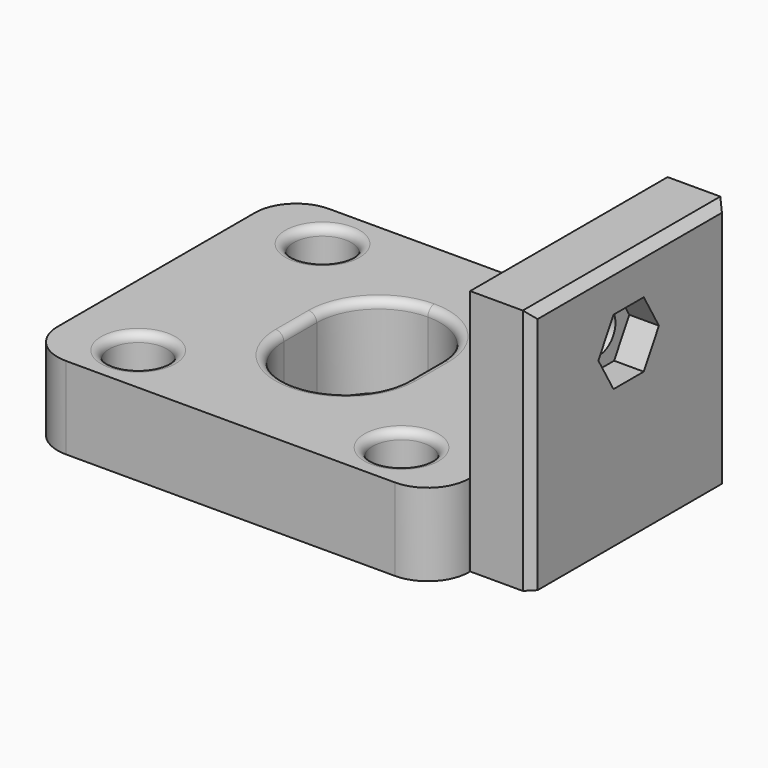
from build123d import *

# Parameters (mm, degrees)
F0_R     = 4.445
F1_DEPTH = 12.7
F2_R     = 1.27
F4_START = 31.75
F3_R     = 3.175
F4_DEPTH = 4.826
F5_START = 31.75
F3_W     = 38.1
F3_H     = 38.1
F5_DEPTH = 9.398
F6_SIZE  = 1.27


with BuildPart() as f1:
    # F0 (on Top) → F1 (new body)
    with BuildSketch(Plane.XY):
        with BuildLine():
            ThreePointArc((31.75, 19.05), (29.8901280605, 23.5401280605), (25.4, 25.4))
            Line((25.4, 25.4), (-25.4, 25.4))
            ThreePointArc((-25.4, 25.4), (-29.8901280605, 23.5401280605), (-31.75, 19.05))
            Line((-31.75, 19.05), (-31.75, -19.05))
            ThreePointArc((-31.75, -19.05), (-29.8901280605, -23.5401280605), (-25.4, -25.4))
            Line((-25.4, -25.4), (25.4, -25.4))
            ThreePointArc((25.4, -25.4), (29.8901280605, -23.5401280605), (31.75, -19.05))
            Line((31.75, -19.05), (31.75, 19.05))
        make_face()
        with Locations((-20.32, -17.78)):
            Circle(F0_R, mode=Mode.SUBTRACT)
        with Locations((20.32, -17.78)):
            Circle(F0_R, mode=Mode.SUBTRACT)
        with BuildLine():
            ThreePointArc((0, 12.7), (6.7351920908, 9.9101920908), (9.525, 3.175))
            Line((9.525, 3.175), (9.525, -3.175))
            ThreePointArc((9.525, -3.175), (6.7351920908, -9.9101920908), (0, -12.7))
            ThreePointArc((0, -12.7), (-6.7351920908, -9.9101920908), (-9.525, -3.175))
            Line((-9.525, -3.175), (-9.525, 3.175))
            ThreePointArc((-9.525, 3.175), (-6.7351920908, 9.9101920908), (0, 12.7))
        make_face(mode=Mode.SUBTRACT)
        with Locations((-20.32, 17.78)):
            Circle(F0_R, mode=Mode.SUBTRACT)
        with Locations((20.32, 17.78)):
            Circle(F0_R, mode=Mode.SUBTRACT)
    extrude(amount=F1_DEPTH)

    # F2
    f2_edges = [f1.edges().sort_by_distance(p)[0] for p in [
        (-24.765, 17.78, 12.7),
        (-15.875, -17.78, 6.35),
        (-24.765, -17.78, 0),
        (-24.765, -17.78, 12.7),
        (15.875, -17.78, 12.7),
        (15.875, 17.78, 12.7),
        (0, -12.7, 12.7),
        (-9.525, 0, 12.7),
        (0, 12.7, 12.7),
        (9.525, 0, 12.7),
    ]]
    fillet(f2_edges, radius=F2_R)


with BuildPart() as f4:
    # F3 (on Right) → F4 (new body)
    with BuildSketch(Plane.YZ.offset(F4_START)):
        Polygon((-2.9209193859, 21.3609840721), (2.9209193859, 21.3609840721), (5.8418387719, 26.4201648533), (2.9209193859, 31.4793456346), (-2.9209193859, 31.4793456346), (-5.8418387719, 26.4201648533), align=None)
        with Locations((0, 26.4201648533)):
            Circle(F3_R, mode=Mode.SUBTRACT)
    extrude(amount=F4_DEPTH)


with BuildPart() as f5:
    # F3 (on Right) → F5 (new body)
    with BuildSketch(Plane.YZ.offset(F5_START)):
        with Locations((0.2186053872, 19.05)):
            Rectangle(F3_W, F3_H)
        Polygon((5.8418387719, 26.4201648533), (2.9209193859, 21.3609840721), (-2.9209193859, 21.3609840721), (-5.8418387719, 26.4201648533), (-2.9209193859, 31.4793456346), (2.9209193859, 31.4793456346), align=None, mode=Mode.SUBTRACT)
    extrude(amount=F5_DEPTH)

    # F6
    f6_edges = [f5.edges().sort_by_distance(p)[0] for p in [
        (41.148, 0.218605, 38.1),
        (41.148, -18.831395, 19.05),
        (41.148, 19.268605, 19.05),
    ]]
    chamfer(f6_edges, length=F6_SIZE)


solid = Compound([f1.part, f4.part, f5.part])
